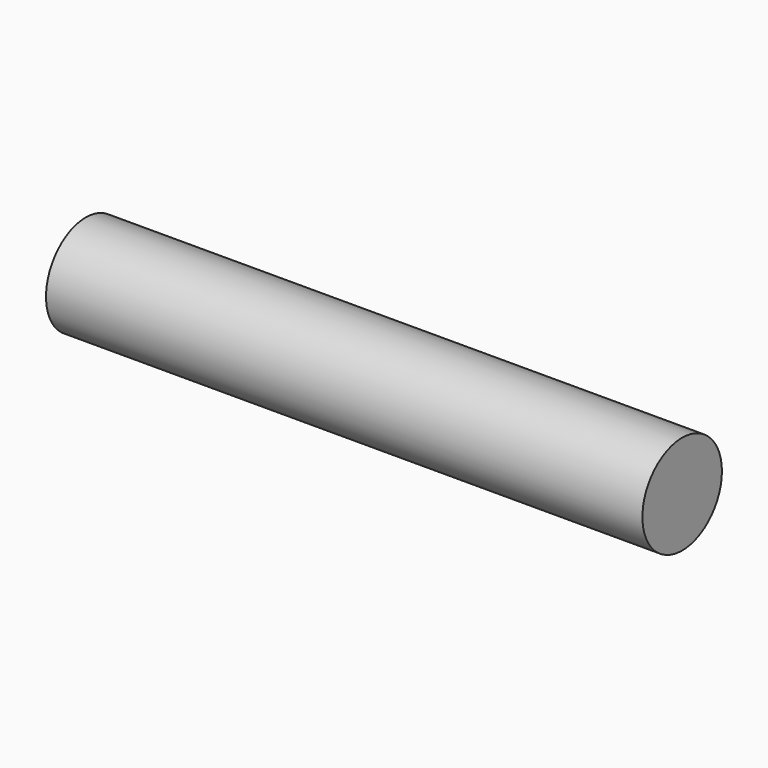
from build123d import *

# Parameters (mm, degrees)
F0_R          = 6.35
F1_DEPTH      = 38.1
F1_DEPTH_BACK = 38.1


with BuildPart() as f1:
    # F0 (on Right) → F1 (new body, two sides)
    with BuildSketch(Plane.YZ) as f1_sk:
        with Locations((-44.952378, 23.621395)):
            Circle(F0_R)
    extrude(amount=F1_DEPTH)
    extrude(f1_sk.sketch, amount=-F1_DEPTH_BACK)


solid = f1.part
